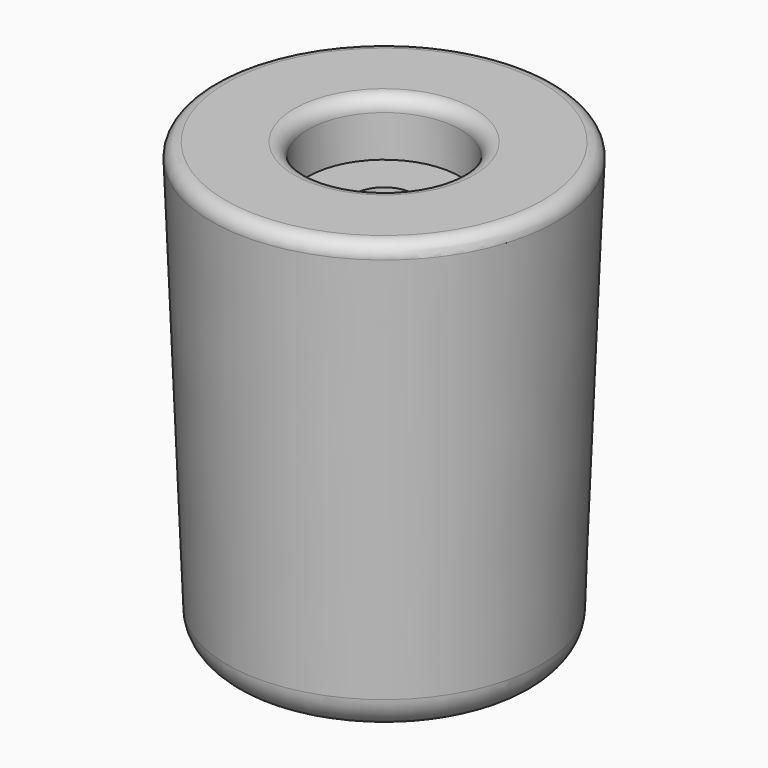
from build123d import *

# Parameters (mm, degrees)
POCKET_DEPTH    = 8
SKETCH003_R     = 4.25
POCKET001_DEPTH = 64.001
SKETCH004_R     = 11
POCKET002_DEPTH = 8
FILLET_R        = 2
FILLET001_R     = 5


with BuildPart() as part:
    # Sketch → Revolution (revolve)
    with BuildSketch(Plane.XZ):
        Polygon((0, 0), (22.5, 0), (25, 64), (0, 64), align=None)
    revolve(axis=Axis((0, 0, 0), (0, 0, 1)))

    # Sketch002 (on Face1 of Revolution) → Pocket (cut)
    with BuildSketch(Plane(origin=(0, 0, 0), x_dir=(1, 0, 0), z_dir=(0, 0, -1))):
        Polygon((7.75, 0), (3.875, 6.711697), (-3.875, 6.711697), (-7.75, 0), (-3.875, -6.711697), (3.875, -6.711697), align=None)
    extrude(amount=-POCKET_DEPTH, mode=Mode.SUBTRACT)

    # Sketch003 (on Face1 of Pocket) → Pocket001 (cut, through all)
    with BuildSketch(Plane(origin=(0, 0, 0), x_dir=(1, 0, 0), z_dir=(0, 0, -1))):
        Circle(SKETCH003_R)
    extrude(amount=-POCKET001_DEPTH, mode=Mode.SUBTRACT)

    # Sketch004 (on Face9 of Pocket001) → Pocket002 (cut)
    with BuildSketch(Plane(origin=(0, 0, 64), x_dir=(-1, 0, 0), z_dir=(0, 0, 1))):
        Circle(SKETCH004_R)
    extrude(amount=-POCKET002_DEPTH, mode=Mode.SUBTRACT)

    # Fillet
    fillet_edges = [part.edges().sort_by_distance(p)[0] for p in [
        (-25, 0, 64),
        (11, 0, 64),
    ]]
    fillet(fillet_edges, radius=FILLET_R)

    # Fillet001
    fillet001_edges = [part.edges().sort_by_distance(p)[0] for p in [
        (-22.5, 0, 0),
    ]]
    fillet(fillet001_edges, radius=FILLET001_R)


solid = part.part
